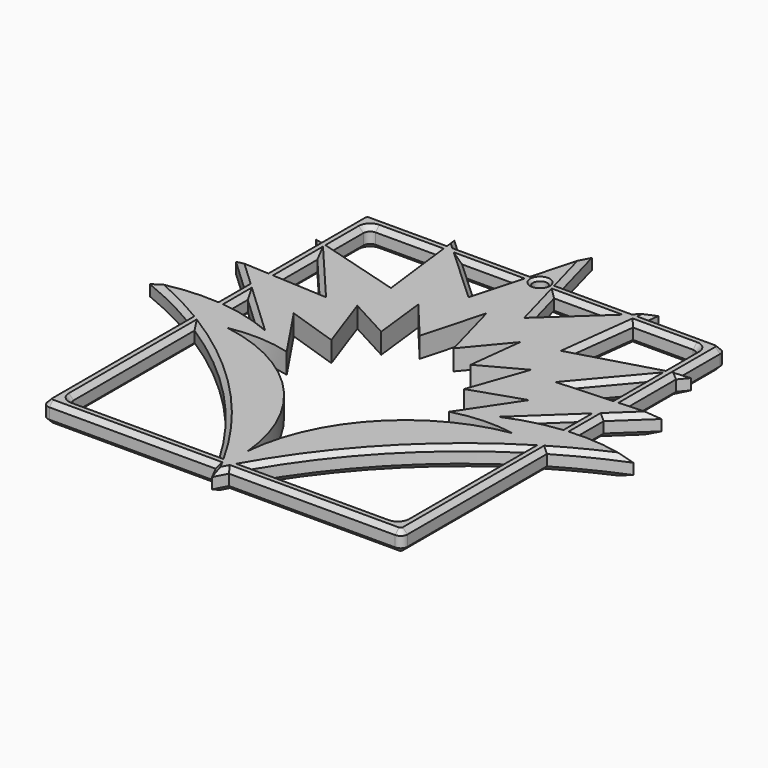
from build123d import *

# Parameters (mm, degrees)
F2_DEPTH  = 3
F3_DEPTH  = 3
F5_DEPTH  = 3
F6_SIZE   = 0.7
F7_SIZE   = 0.7
F8_SIZE   = 0.7
F10_R     = 1.05
F11_DEPTH = 3
F12_SIZE  = 0.4


with BuildPart() as f2:
    # F0 (on Top) → F2 (new body)
    with BuildSketch(Plane.XY):
        with BuildLine():
            Line((4.4775307178, 17.5431095064), (0, 33.8360478133))
            Line((0, 33.8360478133), (-4.4775307178, 17.5431095064))
            Line((-4.4775307178, 17.5431095064), (-15.0412008166, 27.3002170026))
            Line((-15.0412008166, 27.3002170026), (-13.3493985981, 13.4485930204))
            Line((-13.3493985981, 13.4485930204), (-27.6239737868, 17.5723588094))
            Line((-27.6239737868, 17.5723588094), (-18.5052398592, 6.8017707206))
            Line((-18.5052398592, 6.8017707206), (-31.3710998744, 7.4946980923))
            Line((-31.3710998744, 7.4946980923), (-20.1837193221, -3.0173355713))
            ThreePointArc((-20.1837193221, -3.0173355713), (-27.9141640794, -1.9146295463), (-35.639884951, -3.0499593393))
            ThreePointArc((-35.639884951, -3.0499593393), (-14.7735326026, -16.3281697258), (0, -36.1639521867))
            ThreePointArc((0, -36.1639521867), (14.7735326026, -16.3281697258), (35.639884951, -3.0499593393))
            ThreePointArc((35.639884951, -3.0499593393), (27.9141640794, -1.9146295463), (20.1837193221, -3.0173355713))
            Line((20.1837193221, -3.0173355713), (31.3710998744, 7.4946980923))
            Line((31.3710998744, 7.4946980923), (18.5052398592, 6.8017707206))
            Line((18.5052398592, 6.8017707206), (27.6239737868, 17.5723588094))
            Line((27.6239737868, 17.5723588094), (13.3493985981, 13.4485930204))
            Line((13.3493985981, 13.4485930204), (15.0412008166, 27.3002170026))
            Line((15.0412008166, 27.3002170026), (4.4775307178, 17.5431095064))
        make_face()
    extrude(amount=F2_DEPTH)

    # F1 (on Top) → F3 (cut, through all)
    with BuildSketch(Plane.XY):
        with BuildLine():
            Line((-17.3445186421, 0.5918808294), (-11.9743613857, -7.4196962707))
            ThreePointArc((-11.9743613857, -7.4196962707), (-16.4729103397, -6.7106559578), (-21.0155786517, -7.0329065797))
            ThreePointArc((-21.0155786517, -7.0329065797), (-6.6394871892, -14.6806421528), (0, -29.5493029868))
            ThreePointArc((0, -29.5493029868), (6.6394871892, -14.6806421528), (21.0155786517, -7.0329065797))
            ThreePointArc((21.0155786517, -7.0329065797), (16.4729103397, -6.7106559578), (11.9743613857, -7.4196962707))
            Line((11.9743613857, -7.4196962707), (17.3445186421, 0.5918808294))
            Line((17.3445186421, 0.5918808294), (9.7851638484, -1.9279038979))
            Line((9.7851638484, -1.9279038979), (12.8089053744, 6.6393639222))
            Line((12.8089053744, 6.6393639222), (6.5934365733, 3.2796512243))
            Line((6.5934365733, 3.2796512243), (7.517357867, 11.2589697381))
            Line((7.517357867, 11.2589697381), (2.5082505709, 5.2566927399))
            Line((2.5082505709, 5.2566927399), (0, 14.4506970132))
            Line((0, 14.4506970132), (-2.5082505709, 5.2566927399))
            Line((-2.5082505709, 5.2566927399), (-7.517357867, 11.2589697381))
            Line((-7.517357867, 11.2589697381), (-6.5934365733, 3.2796512243))
            Line((-6.5934365733, 3.2796512243), (-12.8089053744, 6.6393639222))
            Line((-12.8089053744, 6.6393639222), (-9.7851638484, -1.9279038979))
            Line((-9.7851638484, -1.9279038979), (-17.3445186421, 0.5918808294))
        make_face()
    extrude(amount=F3_DEPTH, mode=Mode.SUBTRACT)

    # F7
    f7_edges = [f2.edges().sort_by_distance(p)[0] for p in [
        (-14.773533, -16.32817, 3),
        (-27.914164, -1.91463, 3),
        (-25.77741, 2.238681, 3),
        (-24.93817, 7.148234, 3),
        (-23.064607, 12.187065, 3),
        (-20.486686, 15.510476, 3),
        (-14.1953, 20.374405, 3),
        (-9.759366, 22.421663, 3),
        (-2.238765, 25.689579, 3),
        (2.238765, 25.689579, 3),
        (9.759366, 22.421663, 3),
        (14.1953, 20.374405, 3),
        (20.486686, 15.510476, 3),
        (23.064607, 12.187065, 3),
        (24.93817, 7.148234, 3),
        (25.77741, 2.238681, 3),
        (27.914164, -1.91463, 3),
        (14.773533, -16.32817, 3),
    ]]
    chamfer(f7_edges, length=F7_SIZE)

    # F8
    f8_edges = [f2.edges().sort_by_distance(p)[0] for p in [
        (14.773533, -16.32817, 0),
        (27.914164, -1.91463, 0),
        (25.77741, 2.238681, 0),
        (24.93817, 7.148234, 0),
        (23.064607, 12.187065, 0),
        (20.486686, 15.510476, 0),
        (14.1953, 20.374405, 0),
        (9.759366, 22.421663, 0),
        (2.238765, 25.689579, 0),
        (-2.238765, 25.689579, 0),
        (-9.759366, 22.421663, 0),
        (-14.1953, 20.374405, 0),
        (-20.486686, 15.510476, 0),
        (-23.064607, 12.187065, 0),
        (-24.93817, 7.148234, 0),
        (-25.77741, 2.238681, 0),
        (-27.914164, -1.91463, 0),
        (-14.773533, -16.32817, 0),
    ]]
    chamfer(f8_edges, length=F8_SIZE)


with BuildPart() as f5:
    # F4 (on Top) → F5 (new body, through all)
    with BuildSketch(Plane.XY):
        with BuildLine():
            Line((25.5, 25.3519878319), (-25.5, 25.3519878319))
            ThreePointArc((-25.5, 25.3519878319), (-26.2071067812, 25.0590946131), (-26.5, 24.3519878319))
            Line((-26.5, 24.3519878319), (-26.5, -33.2580121681))
            ThreePointArc((-26.5, -33.2580121681), (-26.2071067812, -33.9651189493), (-25.5, -34.2580121681))
            Line((-25.5, -34.2580121681), (25.5, -34.2580121681))
            ThreePointArc((25.5, -34.2580121681), (26.2071067812, -33.9651189493), (26.5, -33.2580121681))
            Line((26.5, -33.2580121681), (26.5, 24.3519878319))
            ThreePointArc((26.5, 24.3519878319), (26.2071067812, 25.0590946131), (25.5, 25.3519878319))
        make_face()
        with BuildLine():
            ThreePointArc((23.4, 23.2519878319), (24.1071067812, 22.9590946131), (24.4, 22.2519878319))
            Line((24.4, 22.2519878319), (24.4, -31.1580121681))
            ThreePointArc((24.4, -31.1580121681), (24.1071067812, -31.8651189493), (23.4, -32.1580121681))
            Line((23.4, -32.1580121681), (-23.4, -32.1580121681))
            ThreePointArc((-23.4, -32.1580121681), (-24.1071067812, -31.8651189493), (-24.4, -31.1580121681))
            Line((-24.4, -31.1580121681), (-24.4, 22.2519878319))
            ThreePointArc((-24.4, 22.2519878319), (-24.1071067812, 22.9590946131), (-23.4, 23.2519878319))
            Line((-23.4, 23.2519878319), (23.4, 23.2519878319))
        make_face(mode=Mode.SUBTRACT)
    extrude(amount=F5_DEPTH)

    # F6
    f6_edges = [f5.edges().sort_by_distance(p)[0] for p in [
        (0, 25.351988, 3),
        (-26.207107, 25.059095, 3),
        (-26.5, -4.453012, 3),
        (-26.207107, -33.965119, 3),
        (0, -34.258012, 3),
        (26.207107, -33.965119, 3),
        (26.5, -4.453012, 3),
        (26.207107, 25.059095, 3),
        (24.107107, 22.959095, 3),
        (24.4, -4.453012, 3),
        (24.107107, -31.865119, 3),
        (0, -32.158012, 3),
        (-24.107107, -31.865119, 3),
        (-24.4, -4.453012, 3),
        (-24.107107, 22.959095, 3),
        (0, 23.251988, 3),
        (0, 25.351988, 0),
        (-26.207107, 25.059095, 0),
        (-26.5, -4.453012, 0),
        (-26.207107, -33.965119, 0),
        (0, -34.258012, 0),
        (26.207107, -33.965119, 0),
        (26.5, -4.453012, 0),
        (26.207107, 25.059095, 0),
        (24.107107, 22.959095, 0),
        (24.4, -4.453012, 0),
        (24.107107, -31.865119, 0),
        (0, -32.158012, 0),
        (-24.107107, -31.865119, 0),
        (-24.4, -4.453012, 0),
        (-24.107107, 22.959095, 0),
        (0, 23.251988, 0),
    ]]
    chamfer(f6_edges, length=F6_SIZE)


with BuildPart() as f2_1:
    add(f2.part)

    # F9: union F5
    add(f5.part)

    # F10 (on Top) → F11 (cut, through all)
    with BuildSketch(Plane.XY):
        with Locations((0, 24.3019878319)):
            Circle(F10_R)
    extrude(amount=F11_DEPTH, mode=Mode.SUBTRACT)

    # F12
    f12_edges = [f2_1.edges().sort_by_distance(p)[0] for p in [
        (1.05, 24.301988, 1.5),
        (-1.05, 24.301988, 0),
        (-1.05, 24.301988, 3),
    ]]
    chamfer(f12_edges, length=F12_SIZE)


solid = f2_1.part
